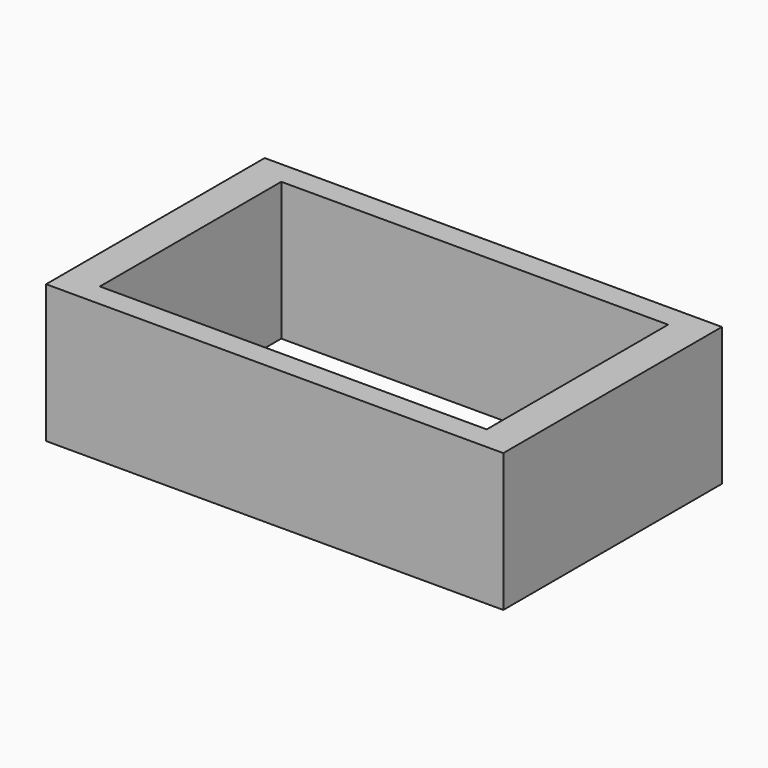
from build123d import *

# Parameters (mm, degrees)
F1_W     = 84.096082
F1_H     = 50.257322
F1_W_2   = 71.149058
F1_H_2   = 41.708984
F2_DEPTH = 25.4


with BuildPart() as f2:
    # F1 (on face) → F2 (new body)
    with BuildSketch(Plane.XY):
        Rectangle(F1_W, F1_H)
        Rectangle(F1_W_2, F1_H_2, mode=Mode.SUBTRACT)
    extrude(amount=F2_DEPTH)


solid = f2.part
